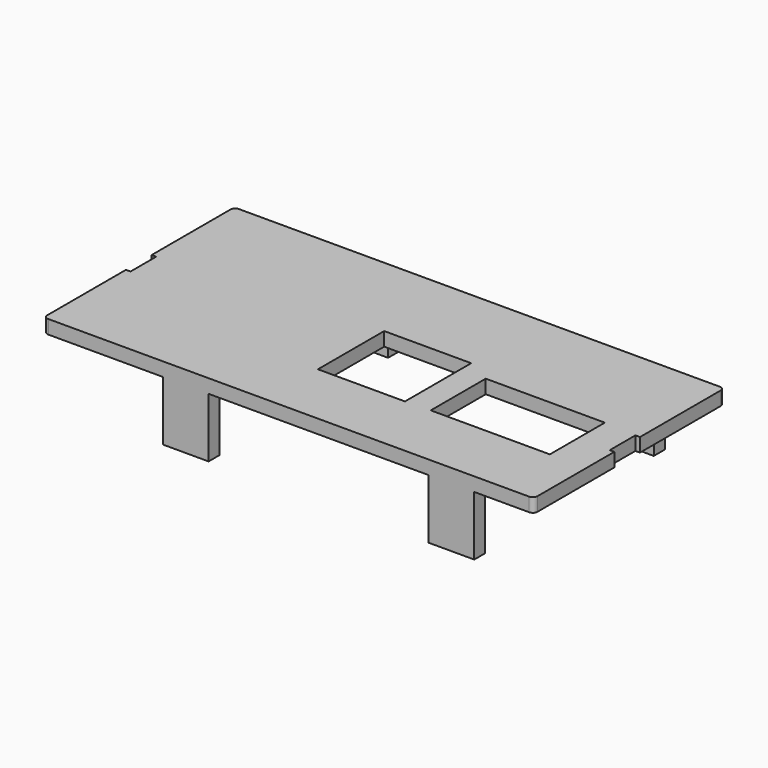
from build123d import *

# Parameters (mm, degrees)
SKETCH_W     = 107
SKETCH_H     = 52
SKETCH_W_2   = 19
SKETCH_H_2   = 18.075611
SKETCH_W_3   = 26
SKETCH_H_3   = 15
PAD_DEPTH    = 3
FILLET_R     = 1
SKETCH001_W  = 1
SKETCH001_H  = 7
POCKET_DEPTH = 3.001
SKETCH002_W  = 10
SKETCH002_H  = 3
PAD001_DEPTH = 13


with BuildPart() as part:
    # Sketch → Pad (new body)
    with BuildSketch(Plane.XY):
        with Locations((6.888296, 0.52123)):
            Rectangle(SKETCH_W, SKETCH_H)
        with Locations((11.388296, -2.220965)):
            Rectangle(SKETCH_W_2, SKETCH_H_2, mode=Mode.SUBTRACT)
        with Locations((39.388296, -3.58877)):
            Rectangle(SKETCH_W_3, SKETCH_H_3, mode=Mode.SUBTRACT)
    extrude(amount=PAD_DEPTH)

    # Fillet
    fillet_edges = [part.edges().sort_by_distance(p)[0] for p in [
        (-46.611704, 26.52123, 1.5),
        (60.388296, 26.52123, 1.5),
        (60.388296, -25.47877, 1.5),
        (-46.611704, -25.47877, 1.5),
    ]]
    fillet(fillet_edges, radius=FILLET_R)

    # Sketch001 (on ShapeBinder) → Pocket (cut, through all)
    with BuildSketch(Plane(origin=(0, 0, 0), x_dir=(1, 0, 0), z_dir=(0, 0, -1))):
        with Locations((-46.111704, -0.481376)):
            Rectangle(SKETCH001_W, SKETCH001_H)
        with Locations((59.888296, 0)):
            Rectangle(SKETCH001_W, SKETCH001_H)
    extrude(amount=-POCKET_DEPTH, mode=Mode.SUBTRACT)

    # Sketch002 (on ShapeBinder) → Pad001 (join)
    with BuildSketch(Plane(origin=(0, 0, 0), x_dir=(1, 0, 0), z_dir=(0, 0, -1))):
        with Locations((-15.611704, 23.97877)):
            Rectangle(SKETCH002_W, SKETCH002_H)
        with Locations((42.388296, 23.97877)):
            Rectangle(SKETCH002_W, SKETCH002_H)
        with Locations((-15.611704, -25.02123)):
            Rectangle(SKETCH002_W, SKETCH002_H)
        with Locations((42.388296, -25.02123)):
            Rectangle(SKETCH002_W, SKETCH002_H)
    extrude(amount=PAD001_DEPTH)


solid = part.part
